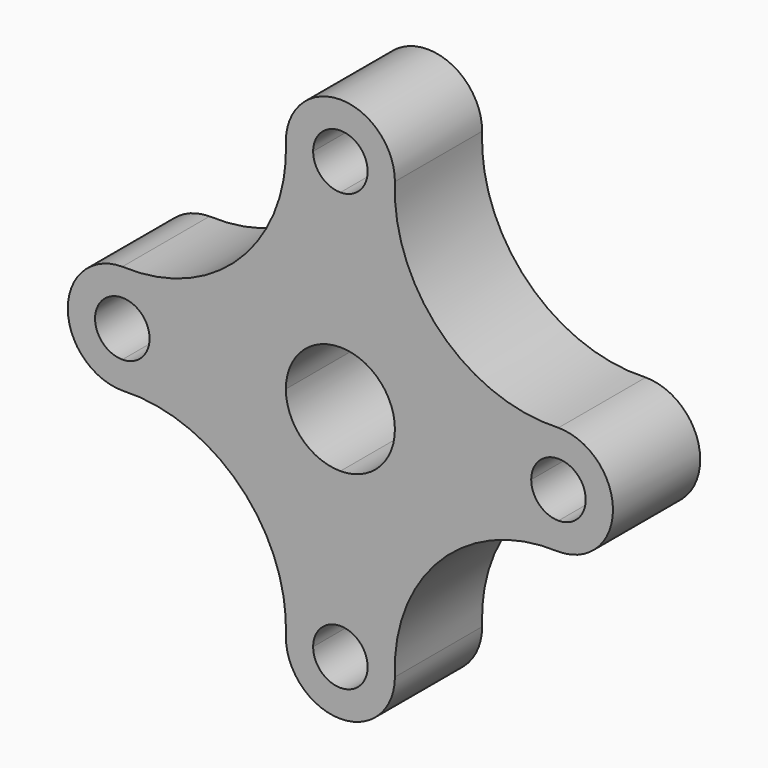
from build123d import *

# Parameters (mm, degrees)
F1_DEPTH = 25.4


with BuildPart() as f1:
    # F0 (on Front) → F1 (new body)
    with BuildSketch(Plane.XZ):
        with BuildLine():
            Line((44.45, 0), (12.7, 0))
            ThreePointArc((12.7, 0), (8.980256, -8.980256), (0, -12.7))
            Line((0, -12.7), (0, -44.45))
            ThreePointArc((0, -44.45), (4.490128, -46.309872), (6.35, -50.8))
            Line((6.35, -50.8), (12.7, -50.8))
            ThreePointArc((12.7, -50.8), (23.358147, -23.358147), (50.8, -12.7))
            Line((50.8, -12.7), (50.8, -6.35))
            ThreePointArc((50.8, -6.35), (46.309872, -4.490128), (44.45, 0))
        make_face()
        with BuildLine():
            ThreePointArc((0, 12.7), (8.980256, 8.980256), (12.7, 0))
            Line((12.7, 0), (44.45, 0))
            ThreePointArc((44.45, 0), (46.309872, 4.490128), (50.8, 6.35))
            Line((50.8, 6.35), (50.8, 12.7))
            ThreePointArc((50.8, 12.7), (23.358147, 23.358147), (12.7, 50.8))
            Line((12.7, 50.8), (6.35, 50.8))
            ThreePointArc((6.35, 50.8), (4.490128, 46.309872), (0, 44.45))
            Line((0, 44.45), (0, 12.7))
        make_face()
        with BuildLine():
            ThreePointArc((-12.7, 0), (-8.980256, 8.980256), (0, 12.7))
            Line((0, 12.7), (0, 44.45))
            ThreePointArc((0, 44.45), (-4.490128, 46.309872), (-6.35, 50.8))
            Line((-6.35, 50.8), (-12.7, 50.8))
            ThreePointArc((-12.7, 50.8), (-23.358147, 23.358147), (-50.8, 12.7))
            Line((-50.8, 12.7), (-50.8, 6.35))
            ThreePointArc((-50.8, 6.35), (-46.309872, 4.490128), (-44.45, 0))
            Line((-44.45, 0), (-12.7, 0))
        make_face()
        with BuildLine():
            Line((0, -44.45), (0, -12.7))
            ThreePointArc((0, -12.7), (-8.980256, -8.980256), (-12.7, 0))
            Line((-12.7, 0), (-44.45, 0))
            ThreePointArc((-44.45, 0), (-46.309872, -4.490128), (-50.8, -6.35))
            Line((-50.8, -6.35), (-50.8, -12.7))
            ThreePointArc((-50.8, -12.7), (-23.358147, -23.358147), (-12.7, -50.8))
            Line((-12.7, -50.8), (-6.35, -50.8))
            ThreePointArc((-6.35, -50.8), (-4.490128, -46.309872), (0, -44.45))
        make_face()
        with BuildLine():
            Line((50.8, 12.7), (50.8, 6.35))
            ThreePointArc((50.8, 6.35), (55.290128, 4.490128), (57.15, 0))
            ThreePointArc((57.15, 0), (55.290128, -4.490128), (50.8, -6.35))
            Line((50.8, -6.35), (50.8, -12.7))
            ThreePointArc((50.8, -12.7), (63.5, 0), (50.8, 12.7))
        make_face()
        with BuildLine():
            Line((-12.7, 50.8), (-6.35, 50.8))
            ThreePointArc((-6.35, 50.8), (0, 57.15), (6.35, 50.8))
            Line((6.35, 50.8), (12.7, 50.8))
            ThreePointArc((12.7, 50.8), (0, 63.5), (-12.7, 50.8))
        make_face()
        with BuildLine():
            Line((12.7, -50.8), (6.35, -50.8))
            ThreePointArc((6.35, -50.8), (0, -57.15), (-6.35, -50.8))
            Line((-6.35, -50.8), (-12.7, -50.8))
            ThreePointArc((-12.7, -50.8), (0, -63.5), (12.7, -50.8))
        make_face()
        with BuildLine():
            ThreePointArc((-50.8, -6.35), (-57.15, 0), (-50.8, 6.35))
            Line((-50.8, 6.35), (-50.8, 12.7))
            ThreePointArc((-50.8, 12.7), (-63.5, 0), (-50.8, -12.7))
            Line((-50.8, -12.7), (-50.8, -6.35))
        make_face()
    extrude(amount=F1_DEPTH)


solid = f1.part
